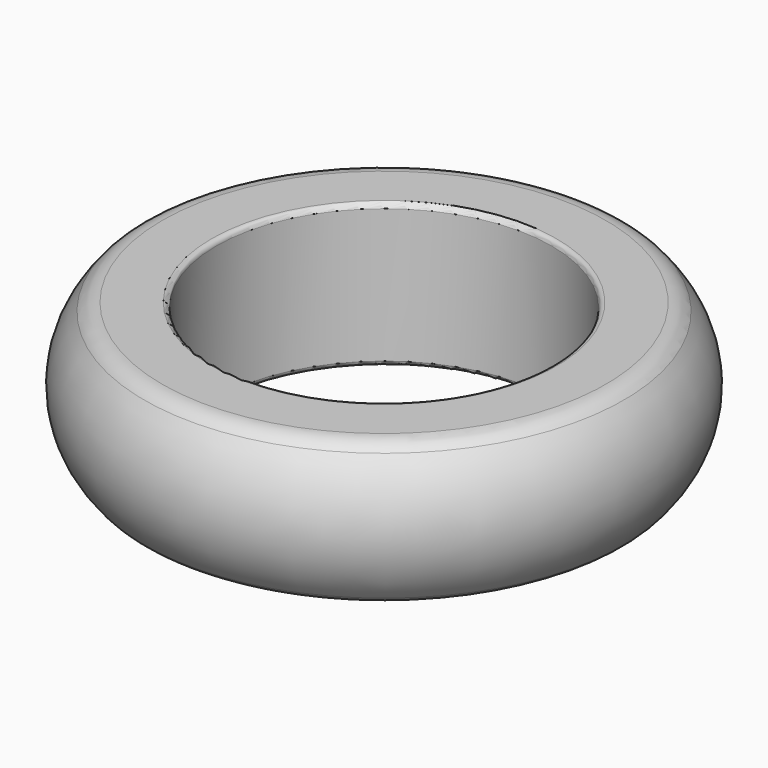
from build123d import *


with BuildPart() as f1:
    # F0 (on Front) → F1 (revolve)
    with BuildSketch(Plane.XZ):
        with BuildLine():
            ThreePointArc((-7.2, 0), (-7.058579, 0.058579), (-7, 0.2))
            Line((-7, 0.2), (-7, 5.8))
            ThreePointArc((-7, 5.8), (-7.058579, 5.941421), (-7.2, 6))
            Line((-7.2, 6), (-9.26283, 6))
            ThreePointArc((-9.26283, 6), (-9.673773, 5.911661), (-10.012112, 5.662252))
            ThreePointArc((-10.012112, 5.662252), (-11.02, 3), (-10.012112, 0.337748))
            ThreePointArc((-10.012112, 0.337748), (-9.673773, 0.088339), (-9.26283, 0))
            Line((-9.26283, 0), (-7.2, 0))
        make_face()
    revolve(axis=Axis((0, 0, 5), (0, 0, -1)))


solid = f1.part
